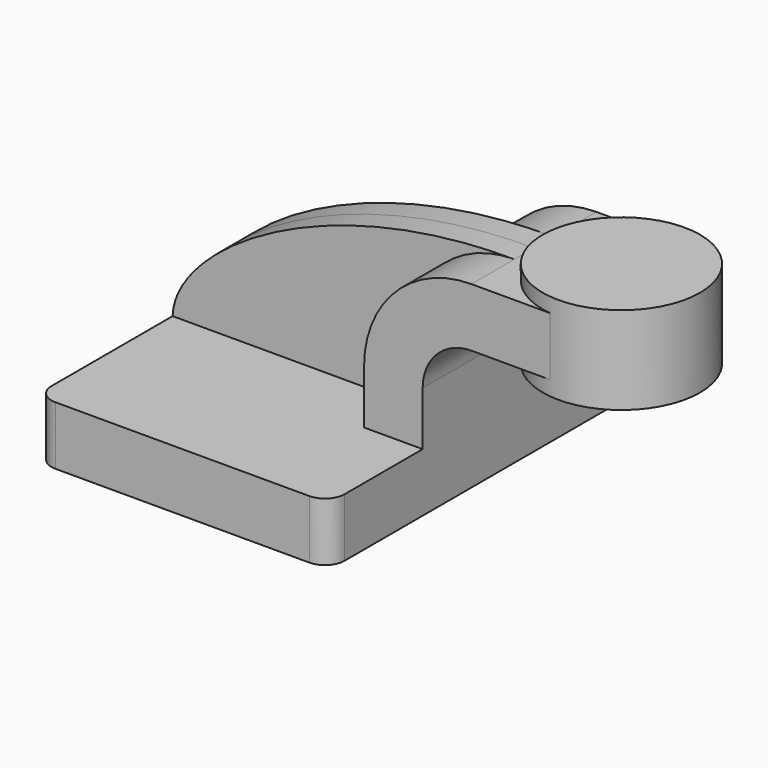
from build123d import *

# Parameters (mm, degrees)
F1_DEPTH  = 63.5
F2_DEPTH  = 25.4
F3_DEPTH  = 7.9375
F2_FACE_W = 50.8
F2_FACE_H = 19.05
F4_DEPTH  = 25.4
F6_R      = 6.35


with BuildPart() as f1:
    # F0 (on Front) → F1 (new body, symmetric)
    with BuildSketch(Plane.XZ):
        Polygon((-47.625, -9.525), (47.625, -9.525), (47.625, 9.525), (28.575, 9.525), (-47.625, 9.525), align=None)
    extrude(amount=F1_DEPTH, both=True)

    # F0 (on Front) → F2 (join, symmetric)
    with BuildSketch(Plane.XZ):
        with BuildLine():
            Line((28.575, 9.525), (47.625, 9.525))
            Line((47.625, 9.525), (47.625, 27.0002))
            ThreePointArc((47.625, 27.0002), (52.27468, 38.22552), (63.5, 42.8752))
            Line((63.5, 42.8752), (66.675, 42.8752))
            Line((66.675, 42.8752), (66.675, 61.9252))
            Line((66.675, 61.9252), (63.5, 61.9252))
            ThreePointArc((63.5, 61.9252), (38.804296, 51.695904), (28.575, 27.0002))
            Line((28.575, 27.0002), (28.575, 9.525))
        make_face()
    extrude(amount=F2_DEPTH, both=True)

    # F0 (on Front) → F3 (join, symmetric)
    with BuildSketch(Plane.XZ):
        with BuildLine():
            add(Edge.make_bspline(
                [(-47.625, 9.525), (-47.097944, 30.442789), (0, 62.250186), (63.5, 61.9252)],
                knots=[0, 0, 0, 0, 122.859866, 122.859866, 122.859866, 122.859866], degree=3))
            Line((-47.625, 9.525), (28.575, 9.525))
            Line((28.575, 9.525), (28.575, 27.0002))
            ThreePointArc((28.575, 27.0002), (38.804296, 51.695904), (63.5, 61.9252))
        make_face()
    extrude(amount=F3_DEPTH, both=True)

    # F2_face (on face) → F4 (join)
    with BuildSketch(Plane(origin=(66.675, 0, 52.4002), x_dir=(0, 1, 0), z_dir=(1, 0, 0))):
        Rectangle(F2_FACE_W, F2_FACE_H)
    extrude(amount=F4_DEPTH)

    # F0 (on Front) → F5 (revolve)
    with BuildSketch(Plane.XZ):
        Polygon((91.912158, 66.675), (91.912158, 61.9252), (91.912158, 42.8752), (91.912158, 38.1), (117.475, 38.1), (117.475, 66.675), align=None)
    revolve(axis=Axis((91.912158, 0, 52.3875), (0, 0, -1)))

    # F6
    f6_edges = [f1.edges().sort_by_distance(p)[0] for p in [
        (47.625, 63.5, 0),
        (-47.625, 63.5, 0),
        (-47.625, -63.5, 0),
        (47.625, -63.5, 0),
    ]]
    fillet(f6_edges, radius=F6_R)


solid = f1.part
